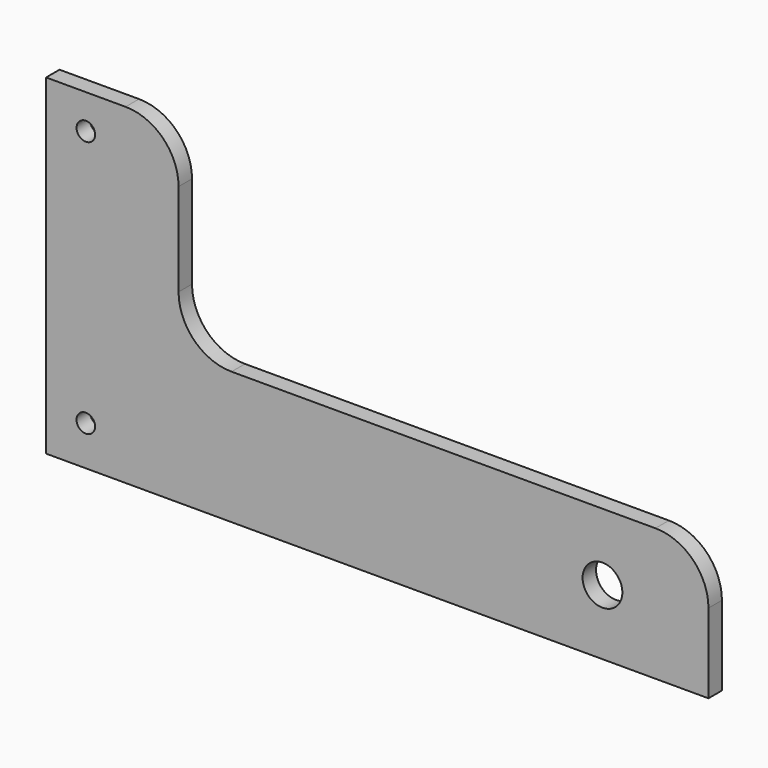
from build123d import *

# Parameters (mm, degrees)
F1_DEPTH = 6.35
F3_D     = 7
F4_D     = 15


with BuildPart() as f1:
    # F0 (on Front) → F1 (new body)
    with BuildSketch(Plane.XZ):
        with BuildLine():
            Line((-79.2936884003, 62.5334825695), (-109.2936884003, 62.5334825695))
            Line((-109.2936884003, 62.5334825695), (-109.2936884003, -62.4665174305))
            Line((-109.2936884003, -62.4665174305), (140.7063115997, -62.4665174305))
            Line((140.7063115997, -62.4665174305), (140.7063115997, -32.4665174305))
            ThreePointArc((140.7063115997, -32.4665174305), (134.8484472234, -18.3243818068), (120.7063115997, -12.4665174305))
            Line((120.7063115997, -12.4665174305), (-39.2936884003, -12.4665174305))
            ThreePointArc((-39.2936884003, -12.4665174305), (-53.435824024, -6.6086530543), (-59.2936884003, 7.5334825695))
            Line((-59.2936884003, 7.5334825695), (-59.2936884003, 42.5334825695))
            ThreePointArc((-59.2936884003, 42.5334825695), (-65.1515527766, 56.6756181932), (-79.2936884003, 62.5334825695))
        make_face()
    extrude(amount=F1_DEPTH)

    # F3 (through all)
    with Locations(Plane(origin=(0, 0, 0), x_dir=(1, 0, 0), z_dir=(0, 1, 0))):
        with Locations((-94.2936884003, -49.5334825695), (-94.2936884003, 47.4665174305)):
            Hole(F3_D / 2)

    # F4 (through all)
    with Locations(Plane(origin=(0, 0, 0), x_dir=(1, 0, 0), z_dir=(0, 1, 0))):
        with Locations((100.7063115997, 37.8665174305)):
            Hole(F4_D / 2)


solid = f1.part
